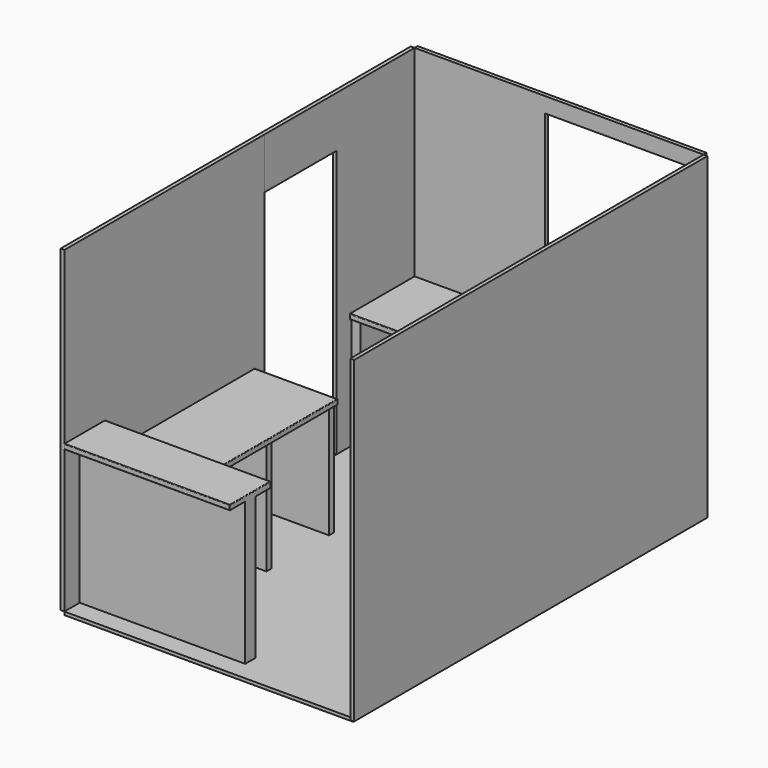
from build123d import *

# Parameters (mm, degrees)
F0_W      = 2270
F0_H      = 30
F1_DEPTH  = 2500
F0_W_2    = 30
F0_H_2    = 3468
F0_H_3    = 765
F0_H_4    = 1963
F2_W      = 2270
F2_H      = 3438
F3_DEPTH  = 25
F4_W      = 2270
F4_H      = 40
F5_DEPTH  = 635
F7_DEPTH  = 1300
F6_W      = 1620
F6_H      = 40
F8_DEPTH  = 650
F9_W      = 1177
F9_H      = 1130
F10_DEPTH = 3498.001
F11_W     = 30
F11_H     = 400
F12_DEPTH = 710
F13_W     = 70
F13_H     = 880
F14_DEPTH = 635
F13_W_2   = 73.1048560888
F13_W_3   = 50
F15_R     = 5
F16_R     = 5
F17_R     = 5
F18_W     = 50
F18_H     = 880
F19_DEPTH = 620
F18_W_2   = 70
F18_W_3   = 36
F18_H_2   = 345
F4_W_2    = 160
F4_H_2    = 160
F4_W_3    = 120
F4_H_3    = 120
F20_DEPTH = 25


with BuildPart() as f1:
    # F0 (on Top) → F1 (new body)
    with BuildSketch(Plane.XY):
        with Locations((998.2948233199, 1741.5534749776)):
            Rectangle(F0_W, F0_H)
    extrude(amount=F1_DEPTH)

    # F9 (on face) → F10 (cut, through all)
    with BuildSketch(Plane(origin=(0, 1756.5534749776, 0), x_dir=(-1, 0, 0), z_dir=(0, 1, 0))):
        with Locations((-1474.7948233199, 1815)):
            Rectangle(F9_W, F9_H)
    extrude(amount=-F10_DEPTH, mode=Mode.SUBTRACT)

    # F4 (on face) → F20 (cut)
    with BuildSketch(Plane.XZ.offset(-1726.5534749776)):
        with Locations((1523.2948233199, 350)):
            Rectangle(F4_W_2, F4_H_2)
        with Locations((1013.2948233199, 330)):
            Rectangle(F4_W_3, F4_H_3)
        with Locations((603.2948233199, 330)):
            Rectangle(F4_W_3, F4_H_3)
    extrude(amount=-F20_DEPTH, mode=Mode.SUBTRACT)


with BuildPart() as f1b:
    # F0 (on Top) → F1, piece 2 (new body)
    with BuildSketch(Plane.XY):
        with Locations((2148.2948233199, -7.4465250224)):
            Rectangle(F0_W_2, F0_H_2)
    extrude(amount=F1_DEPTH)


with BuildPart() as f1c:
    # F0 (on Top) → F1, piece 3 (new body)
    with BuildSketch(Plane.XY):
        with Locations((-151.7051766801, 1344.0534749776)):
            Rectangle(F0_W_2, F0_H_3)
    extrude(amount=F1_DEPTH)

    # F11 (on face) → F12 (join)
    with BuildSketch(Plane.XZ.offset(-961.5534749776)):
        with Locations((-151.7051766801, 2300)):
            Rectangle(F11_W, F11_H)
    extrude(amount=F12_DEPTH)


with BuildPart() as f1d:
    # F0 (on Top) → F1, piece 4 (new body)
    with BuildSketch(Plane.XY):
        with Locations((-151.7051766801, -729.9465250224)):
            Rectangle(F0_W_2, F0_H_4)
    extrude(amount=F1_DEPTH)

    # F6 (on face) → F8 (join)
    with BuildSketch(Plane.YZ.offset(-136.7051766801)):
        with Locations((-650.5513811111, 900)):
            Rectangle(F6_W, F6_H)
    extrude(amount=F8_DEPTH)

    # F15
    f15_edges = [f1d.edges().sort_by_distance(p)[0] for p in [
        (188.294823, 159.448619, 920),
        (513.294823, -650.551381, 920),
        (188.294823, 159.448619, 880),
        (513.294823, -650.551381, 880),
    ]]
    fillet(f15_edges, radius=F15_R)


with BuildPart() as f3:
    # F2 (on face) → F3 (new body)
    with BuildSketch(Plane(origin=(0, 0, 0), x_dir=(1, 0, 0), z_dir=(0, 0, -1))):
        with Locations((998.2948233199, -7.5534749776)):
            Rectangle(F2_W, F2_H)
    extrude(amount=F3_DEPTH)


with BuildPart() as f5:
    # F4 (on face) → F5 (new body)
    with BuildSketch(Plane.XZ.offset(-1726.5534749776)):
        with Locations((998.2948233199, 900)):
            Rectangle(F4_W, F4_H)
    extrude(amount=F5_DEPTH)

    # F17
    f17_edges = [f5.edges().sort_by_distance(p)[0] for p in [
        (998.294823, 1091.553475, 920),
        (998.294823, 1091.553475, 880),
    ]]
    fillet(f17_edges, radius=F17_R)


with BuildPart() as f7:
    # F6 (on face) → F7 (new body)
    with BuildSketch(Plane.YZ.offset(-136.7051766801)):
        Polygon((-1461.4465250224, 0), (-1460.689416728, 880), (-1460.4886770248, 1113.3232116699), (-1311.446047813, 1113.3232116699), (-1311.446047813, 1160), (-1511.4465250224, 1160), (-1711.4465250224, 1160), (-1711.4465250224, 1120), (-1561.4465250224, 1120), (-1561.4465250224, 0), align=None)
    extrude(amount=F7_DEPTH)

    # F16
    f16_edges = [f7.edges().sort_by_distance(p)[0] for p in [
        (513.294823, -1711.446525, 1160),
        (513.294823, -1311.446048, 1160),
        (1163.294823, -1511.446286, 1160),
        (513.294823, -1711.446525, 1120),
        (1163.294823, -1636.446525, 1120),
        (1163.294823, -1385.967362, 1113.323212),
        (1163.294823, -1711.446525, 1140),
        (1163.294823, -1311.446048, 1136.661606),
        (513.294823, -1311.446048, 1113.323212),
    ]]
    fillet(f16_edges, radius=F16_R)


with BuildPart() as f14:
    # F13 (on face) → F14 (new body)
    with BuildSketch(Plane.YZ.offset(-136.7051766801)):
        with Locations((-1156.4465250224, 440)):
            Rectangle(F13_W, F13_H)
    extrude(amount=F14_DEPTH)


with BuildPart() as f14b:
    # F13 (on face) → F14, piece 2 (new body)
    with BuildSketch(Plane.YZ.offset(-136.7051766801)):
        with Locations((-1423.9989530668, 440)):
            Rectangle(F13_W_2, F13_H)
    extrude(amount=F14_DEPTH)


with BuildPart() as f14c:
    # F13 (on face) → F14, piece 3 (new body)
    with BuildSketch(Plane.YZ.offset(-136.7051766801)):
        with Locations((-496.4465250224, 440)):
            Rectangle(F13_W_3, F13_H)
    extrude(amount=F14_DEPTH)


with BuildPart() as f14d:
    # F13 (on face) → F14, piece 4 (new body)
    with BuildSketch(Plane.YZ.offset(-136.7051766801)):
        with Locations((117.5534749776, 440)):
            Rectangle(F13_W_3, F13_H)
    extrude(amount=F14_DEPTH)


with BuildPart() as f19:
    # F18 (on face) → F19 (new body)
    with BuildSketch(Plane.XZ.offset(-1726.5534749776)):
        with Locations((2108.2948233199, 440)):
            Rectangle(F18_W, F18_H)
    extrude(amount=F19_DEPTH)


with BuildPart() as f19b:
    # F18 (on face) → F19, piece 2 (new body)
    with BuildSketch(Plane.XZ.offset(-1726.5534749776)):
        with Locations((1252.2948233199, 440)):
            Rectangle(F18_W_2, F18_H)
    extrude(amount=F19_DEPTH)


with BuildPart() as f19c:
    # F18 (on face) → F19, piece 3 (new body)
    with BuildSketch(Plane.XZ.offset(-1726.5534749776)):
        Polygon((767.2948233199, 880), (697.2948233199, 880), (697.2948233199, 535), (697.2948233199, 485), (697.2948233199, 0), (767.2948233199, 0), align=None)
        Polygon((697.2948233199, 485), (697.2948233199, 535), (333.2948233199, 535), (297.2948233199, 535), (-66.7051766801, 535), (-66.7051766801, 485), align=None)
        with Locations((315.2948233199, 707.5)):
            Rectangle(F18_W_3, F18_H_2)
        Polygon((-66.7051766801, 470), (-66.7051766801, 485), (-66.7051766801, 535), (-66.7051766801, 880), (-136.7051766801, 880), (-136.7051766801, 0), (-66.7051766801, 0), align=None)
    extrude(amount=F19_DEPTH)


with BuildPart() as f19d:
    # F18 (on face) → F19, piece 4 (new body)
    with BuildSketch(Plane.XZ.offset(-1726.5534749776)):
        with Locations((1882.2948233199, 440)):
            Rectangle(F18_W_2, F18_H)
    extrude(amount=F19_DEPTH)


solid = Compound([f1.part, f1b.part, f1c.part, f1d.part, f3.part, f5.part, f7.part, f14.part, f14b.part, f14c.part, f14d.part, f19.part, f19b.part, f19c.part, f19d.part])
